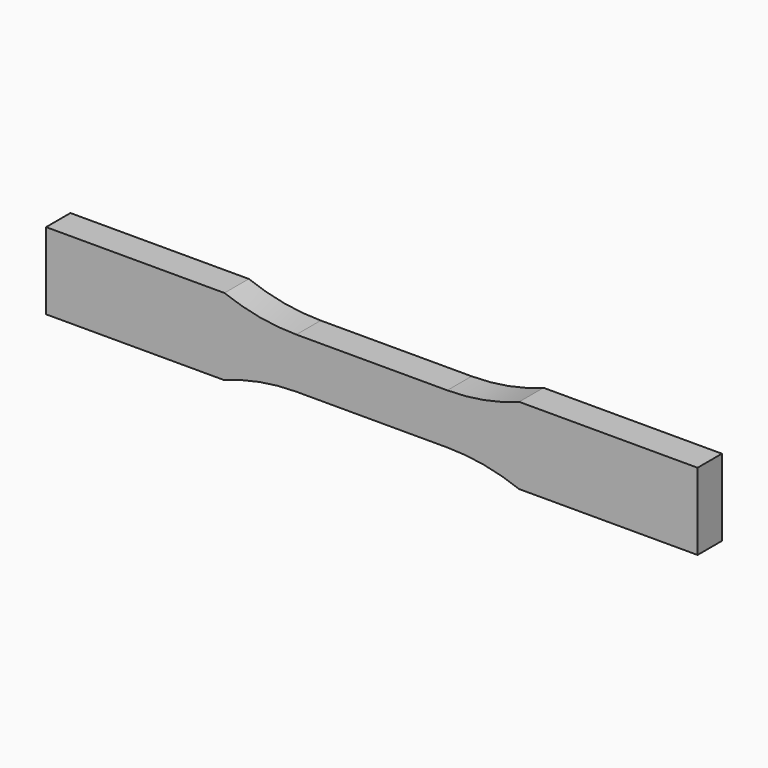
from build123d import *

# Parameters (mm, degrees)
F1_DEPTH = 11.5


with BuildPart() as f1:
    # F0 (on Front) → F1 (new body)
    with BuildSketch(Plane.XZ):
        with BuildLine():
            Line((28.5, 9.5), (0, 9.5))
            Line((0, 9.5), (-28.5, 9.5))
            ThreePointArc((-28.5, 9.5), (-42.302174, 10.760424), (-55.647744, 14.5))
            Line((-55.647744, 14.5), (-123, 14.5))
            Line((-123, 14.5), (-123, 0))
            Line((-123, 0), (-123, -14.5))
            Line((-123, -14.5), (-55.647744, -14.5))
            ThreePointArc((-55.647744, -14.5), (-42.302174, -10.760424), (-28.5, -9.5))
            Line((-28.5, -9.5), (0, -9.5))
            Line((0, -9.5), (28.5, -9.5))
            ThreePointArc((28.5, -9.5), (42.302174, -10.760424), (55.647744, -14.5))
            Line((55.647744, -14.5), (123, -14.5))
            Line((123, -14.5), (123, 0))
            Line((123, 0), (123, 14.5))
            Line((123, 14.5), (55.647744, 14.5))
            ThreePointArc((55.647744, 14.5), (42.302174, 10.760424), (28.5, 9.5))
        make_face()
    extrude(amount=F1_DEPTH)


solid = f1.part
